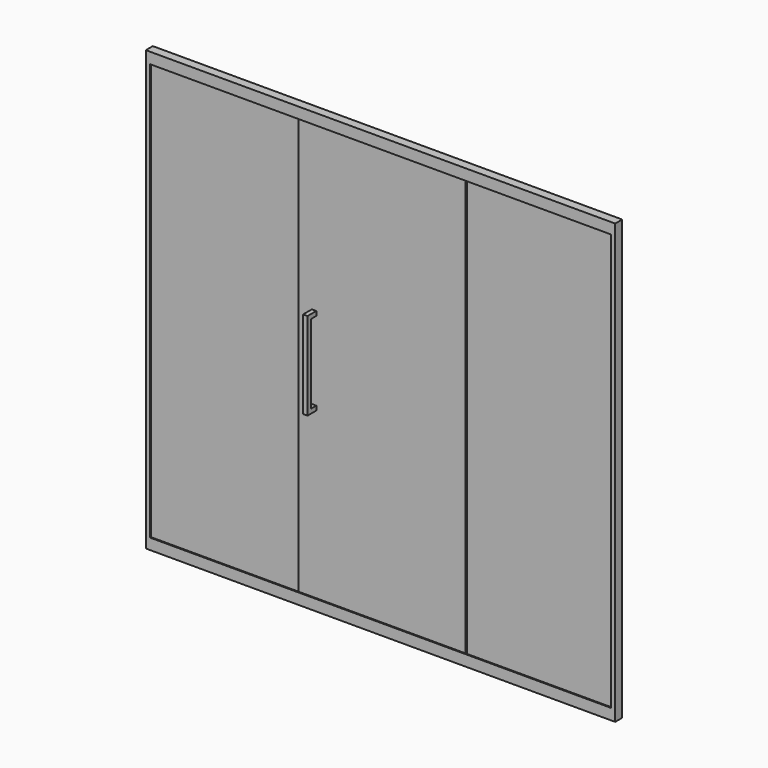
from build123d import *

# Parameters (mm, degrees)
F0_W          = 2140
F0_H          = 2000
F0_W_2        = 700
F0_H_2        = 45
F0_W_3        = 30
F1_DEPTH      = 20
F1_DEPTH_BACK = 20
F2_DEPTH      = 15
F2_DEPTH_BACK = 15
F3_START      = -3
F0_W_4        = 670
F0_H_3        = 1900
F3_DEPTH      = 8
F4_START      = 3
F4_DEPTH      = 8
F5_W          = 20
F5_H          = 20
F6_DEPTH      = 50
F7_START      = 30
F5_H_2        = 360
F7_DEPTH      = 20


with BuildPart() as f1:
    # F0 (on Front) → F1 (new body, two sides)
    with BuildSketch(Plane.XZ) as f1_sk:
        with Locations((1070, 1000)):
            Rectangle(F0_W, F0_H)
        Polygon((5, 5), (5, 1995), (690, 1995), (720, 1995), (1420, 1995), (1450, 1995), (2135, 1995), (2135, 5), (1450, 5), (1420, 5), (720, 5), (690, 5), align=None, mode=Mode.SUBTRACT)
        Polygon((690, 1995), (5, 1995), (5, 5), (690, 5), (690, 50), (20, 50), (20, 1950), (690, 1950), align=None)
        Polygon((2135, 1995), (1450, 1995), (1450, 1950), (2120, 1950), (2120, 50), (1450, 50), (1450, 5), (2135, 5), align=None)
        with Locations((1070, 1972.5)):
            Rectangle(F0_W_2, F0_H_2)
        with Locations((1070, 27.5)):
            Rectangle(F0_W_2, F0_H_2)
        with Locations((705, 1972.5)):
            Rectangle(F0_W_3, F0_H_2)
        with Locations((1435, 1972.5)):
            Rectangle(F0_W_3, F0_H_2)
        with Locations((705, 27.5)):
            Rectangle(F0_W_3, F0_H_2)
        with Locations((1435, 27.5)):
            Rectangle(F0_W_3, F0_H_2)
    extrude(amount=F1_DEPTH)
    extrude(f1_sk.sketch, amount=-F1_DEPTH_BACK)

    # F0 (on Front) → F2 (cut, two sides)
    with BuildSketch(Plane.XZ) as f2_sk:
        Polygon((690, 1995), (5, 1995), (5, 5), (690, 5), (690, 50), (20, 50), (20, 1950), (690, 1950), align=None)
        with Locations((705, 1972.5)):
            Rectangle(F0_W_3, F0_H_2)
        with Locations((1070, 1972.5)):
            Rectangle(F0_W_2, F0_H_2)
        with Locations((1435, 1972.5)):
            Rectangle(F0_W_3, F0_H_2)
        Polygon((2135, 1995), (1450, 1995), (1450, 1950), (2120, 1950), (2120, 50), (1450, 50), (1450, 5), (2135, 5), align=None)
        with Locations((705, 27.5)):
            Rectangle(F0_W_3, F0_H_2)
        with Locations((1070, 27.5)):
            Rectangle(F0_W_2, F0_H_2)
        with Locations((1435, 27.5)):
            Rectangle(F0_W_3, F0_H_2)
    extrude(amount=F2_DEPTH, mode=Mode.SUBTRACT)
    extrude(f2_sk.sketch, amount=-F2_DEPTH_BACK, mode=Mode.SUBTRACT)


with BuildPart() as f3:
    # F0 (on Front) → F3 (new body)
    with BuildSketch(Plane.XZ.offset(F3_START)):
        with Locations((355, 1000)):
            Rectangle(F0_W_4, F0_H_3)
        Polygon((690, 1995), (5, 1995), (5, 5), (690, 5), (690, 50), (20, 50), (20, 1950), (690, 1950), align=None)
        with Locations((705, 1972.5)):
            Rectangle(F0_W_3, F0_H_2)
        with Locations((705, 1000)):
            Rectangle(F0_W_3, F0_H_3)
        with Locations((705, 27.5)):
            Rectangle(F0_W_3, F0_H_2)
    extrude(amount=-F3_DEPTH)


with BuildPart() as f3b:
    # F0 (on Front) → F3, piece 2 (new body)
    with BuildSketch(Plane.XZ.offset(F3_START)):
        with Locations((1785, 1000)):
            Rectangle(F0_W_4, F0_H_3)
        Polygon((2135, 1995), (1450, 1995), (1450, 1950), (2120, 1950), (2120, 50), (1450, 50), (1450, 5), (2135, 5), align=None)
        with Locations((1435, 1972.5)):
            Rectangle(F0_W_3, F0_H_2)
        with Locations((1435, 1000)):
            Rectangle(F0_W_3, F0_H_3)
        with Locations((1435, 27.5)):
            Rectangle(F0_W_3, F0_H_2)
    extrude(amount=-F3_DEPTH)


with BuildPart() as f4:
    # F0 (on Front) → F4 (new body)
    with BuildSketch(Plane.XZ.offset(F4_START)):
        with Locations((1070, 1972.5)):
            Rectangle(F0_W_2, F0_H_2)
        with Locations((1070, 1000)):
            Rectangle(F0_W_2, F0_H_3)
        with Locations((1435, 1972.5)):
            Rectangle(F0_W_3, F0_H_2)
        with Locations((1435, 1000)):
            Rectangle(F0_W_3, F0_H_3)
        with Locations((705, 1972.5)):
            Rectangle(F0_W_3, F0_H_2)
        with Locations((705, 1000)):
            Rectangle(F0_W_3, F0_H_3)
        with Locations((705, 27.5)):
            Rectangle(F0_W_3, F0_H_2)
        with Locations((1070, 27.5)):
            Rectangle(F0_W_2, F0_H_2)
        with Locations((1435, 27.5)):
            Rectangle(F0_W_3, F0_H_2)
    extrude(amount=F4_DEPTH)


with BuildPart() as f6:
    # F5 (on face) → F6 (new body)
    with BuildSketch(Plane.XZ.offset(11)):
        with Locations((760, 1190)):
            Rectangle(F5_W, F5_H)
    extrude(amount=F6_DEPTH)



with BuildPart() as f6b:
    # F5 (on face) → F6, piece 2 (new body)
    with BuildSketch(Plane.XZ.offset(11)):
        with Locations((760, 810)):
            Rectangle(F5_W, F5_H)
    extrude(amount=F6_DEPTH)


with BuildPart() as f6_1:
    add(f6.part)

    add(f6b.part)  # F7 merges F6b
    # F5 (on face) → F7 (join)
    with BuildSketch(Plane.XZ.offset(11).offset(F7_START)):
        with Locations((760, 1000)):
            Rectangle(F5_W, F5_H_2)
    extrude(amount=F7_DEPTH)


solid = Compound([f1.part, f3.part, f3b.part, f4.part, f6_1.part])
